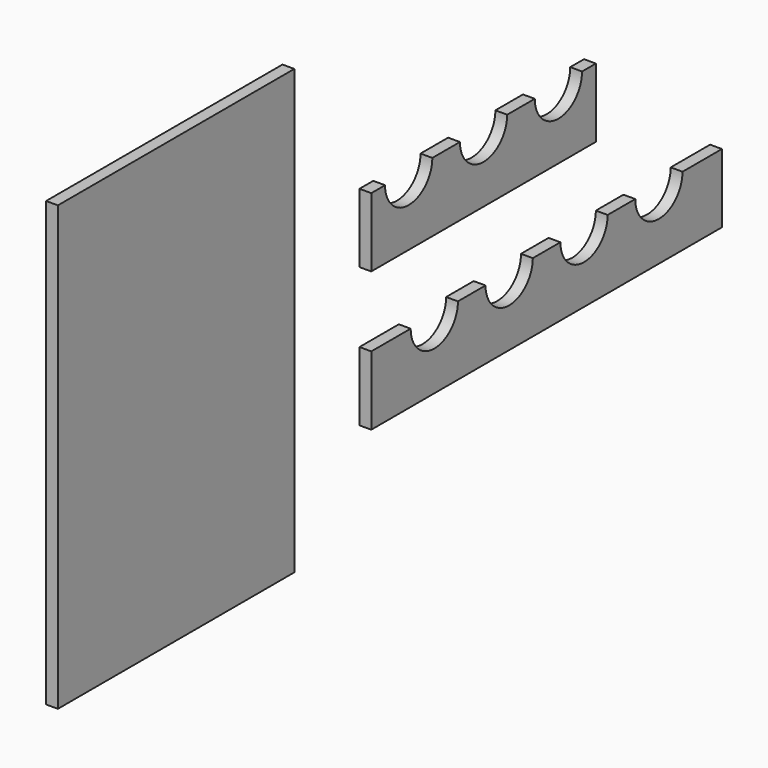
from build123d import *

# Parameters (mm, degrees)
F1_DEPTH = 12
F3_DEPTH = 12
F4_W     = 300
F4_H     = 450
F5_DEPTH = 12


with BuildPart() as f1:
    # F0 (on Right) → F1 (new body)
    with BuildSketch(Plane.YZ):
        with BuildLine():
            Line((0, 70), (0, 0))
            Line((0, 0), (285, 0))
            Line((285, 0), (285, 70))
            Line((285, 70), (267.5, 70))
            ThreePointArc((267.5, 70), (237.5, 40), (207.5, 70))
            Line((207.5, 70), (172.5, 70))
            ThreePointArc((172.5, 70), (142.5, 40), (112.5, 70))
            Line((112.5, 70), (77.5, 70))
            ThreePointArc((77.5, 70), (47.5, 40), (17.5, 70))
            Line((17.5, 70), (0, 70))
        make_face()
    extrude(amount=F1_DEPTH)


with BuildPart() as f3:
    # F2 (on Right) → F3 (new body)
    with BuildSketch(Plane.YZ):
        with BuildLine():
            Line((50, -71.42857), (0, -71.42857))
            Line((0, -71.42857), (0, -141.42857))
            Line((0, -141.42857), (445, -141.42857))
            Line((445, -141.42857), (445, -71.42857))
            Line((445, -71.42857), (395, -71.42857))
            ThreePointArc((395, -71.42857), (365, -101.42857), (335, -71.42857))
            Line((335, -71.42857), (300, -71.42857))
            ThreePointArc((300, -71.42857), (270, -101.42857), (240, -71.42857))
            Line((240, -71.42857), (205, -71.42857))
            ThreePointArc((205, -71.42857), (175, -101.42857), (145, -71.42857))
            Line((145, -71.42857), (110, -71.42857))
            ThreePointArc((110, -71.42857), (80, -101.42857), (50, -71.42857))
        make_face()
    extrude(amount=F3_DEPTH)


with BuildPart() as f5:
    # F4 (on Right) → F5 (new body)
    with BuildSketch(Plane.YZ):
        with Locations((-247.672111, -4.244946)):
            Rectangle(F4_W, F4_H)
    extrude(amount=F5_DEPTH)


solid = Compound([f1.part, f3.part, f5.part])
